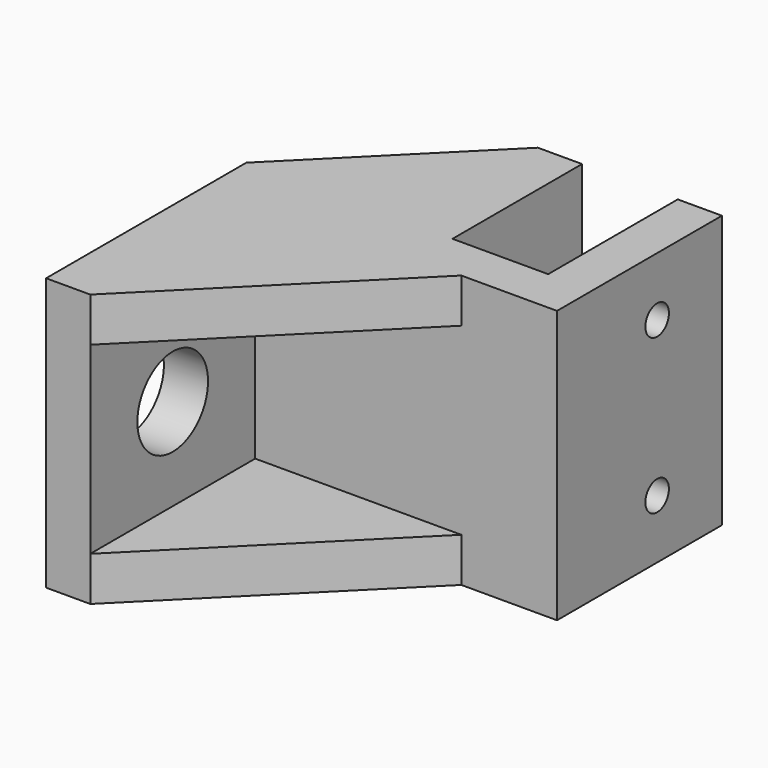
from build123d import *

# Parameters (mm, degrees)
PAD_DEPTH       = 37
PAD001_DEPTH    = 6
PAD002_DEPTH    = 6
SKETCH003_R     = 6
POCKET_DEPTH    = 47.001
SKETCH004_R     = 2
POCKET001_DEPTH = 6


with BuildPart() as part:
    # Sketch → Pad (new body)
    with BuildSketch(Plane.XY):
        Polygon((0, 0), (-22, 0), (-22, -34), (-16, -34), (-16, -6), (25, -6), (25, 22), (19, 22), (19, 0), (6, 0), (6, 22), (0, 22), align=None)
    extrude(amount=PAD_DEPTH)

    # Sketch001 (on Face14 of Pad) → Pad001 (join)
    with BuildSketch(Plane.XY.offset(37)):
        Polygon((-16, -6), (-16, -34), (12, -6), (0, -6), (0, 0), (0, 22), (-22, 0), (-16, 0), align=None)
    extrude(amount=-PAD001_DEPTH)

    # Sketch002 (on Face2 of Pad001) → Pad002 (join)
    with BuildSketch(Plane(origin=(0, 0, 0), x_dir=(1, 0, 0), z_dir=(0, 0, -1))):
        Polygon((-16, 34), (-16, 0), (-22, 0), (0, -22), (0, 6), (12, 6), align=None)
    extrude(amount=-PAD002_DEPTH)

    # Sketch003 (on Face15 of Pad002) → Pocket (cut, through all)
    with BuildSketch(Plane(origin=(-22, 0, 0), x_dir=(0, -1, 0), z_dir=(-1, 0, 0))):
        with Locations((20, 18.5)):
            Circle(SKETCH003_R)
    extrude(amount=-POCKET_DEPTH, mode=Mode.SUBTRACT)

    # Sketch004 (on Face11 of Pocket) → Pocket001 (cut)
    with BuildSketch(Plane.YZ.offset(25)):
        with Locations((11, 29)):
            Circle(SKETCH004_R)
        with Locations((11, 8)):
            Circle(SKETCH004_R)
    extrude(amount=-POCKET001_DEPTH, mode=Mode.SUBTRACT)


solid = part.part
